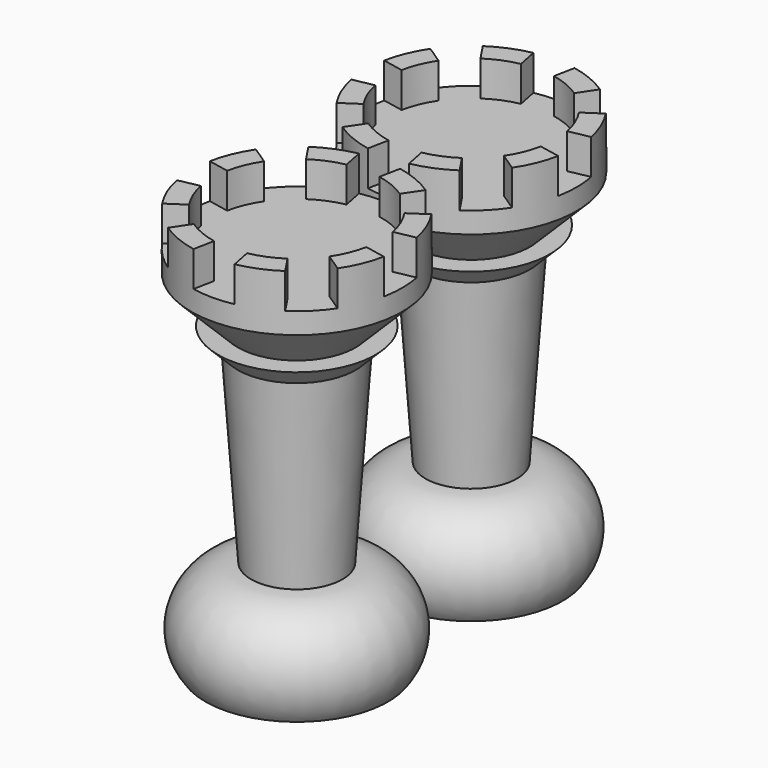
from build123d import *

# Parameters (mm, degrees)
F3_DEPTH = 5


with BuildPart() as f1:
    # F0 (on Front) → F1 (revolve)
    with BuildSketch(Plane.XZ):
        with BuildLine():
            Line((-14.5243834255, -33.9162831373), (-1.5243834255, -33.9162831373))
            Line((-1.5243834255, -33.9162831373), (-1.5243834255, 18.538148064))
            Line((-1.5243834255, 18.538148064), (-13.5243834255, 18.538148064))
            Line((-13.5243834255, 18.538148064), (-13.5243834255, 23.538148064))
            Line((-13.5243834255, 23.538148064), (-16.5243834255, 23.538148064))
            Line((-16.5243834255, 23.538148064), (-16.5243834255, 15.538148064))
            Line((-16.5243834255, 15.538148064), (-9.8983793488, 8.9121439874))
            Line((-9.8983793488, 8.9121439874), (-12.7268064736, 8.9121439874))
            Line((-12.7268064736, 8.9121439874), (-9.8983793488, 6.0837168627))
            Line((-9.8983793488, 6.0837168627), (-8.0243834255, -20.7156734039))
            ThreePointArc((-8.0243834255, -20.7156734039), (-15.3814565074, -25.2936493349), (-14.5243834255, -33.9162831373))
        make_face()
    revolve(axis=Axis((-1.5243834255, 0, -0.7848188675), (0, 0, 1)))

    # F2 (on face) → F3 (cut)
    with BuildSketch(Plane.XY.offset(23.538148064)):
        with BuildLine():
            ThreePointArc((-13.2938067903, -2.3410838642), (-13.4666001455, -1.176205684), (-13.5243834255, 0))
            Line((-13.5243834255, 0), (-16.5243834255, 0))
            ThreePointArc((-16.5243834255, 0), (-16.4521543255, -1.4702571049), (-16.2361626315, -2.9263548302))
            Line((-16.2361626315, -2.9263548302), (-13.2938067903, -2.3410838642))
        make_face()
        with BuildLine():
            Line((-16.5243834255, 0), (-13.5243834255, 0))
            ThreePointArc((-13.5243834255, 0), (-13.4666001455, 1.176205684), (-13.2938067903, 2.3410838642))
            Line((-13.2938067903, 2.3410838642), (-16.2361626315, 2.9263548302))
            ThreePointArc((-16.2361626315, 2.9263548302), (-16.4521543255, 1.4702571049), (-16.5243834255, 0))
        make_face()
        with BuildLine():
            Line((-13.99642761, 8.3335534953), (-11.5020187731, 6.6668427962))
            ThreePointArc((-11.5020187731, 6.6668427962), (-10.0096647997, 8.4852813742), (-8.1912262217, 9.9776353476))
            Line((-8.1912262217, 9.9776353476), (-9.8579369208, 12.4720441845))
            ThreePointArc((-9.8579369208, 12.4720441845), (-12.1309851433, 10.6066017178), (-13.99642761, 8.3335534953))
        make_face()
        with BuildLine():
            Line((-4.4507382557, 14.711779206), (-3.8654672897, 11.7694233648))
            ThreePointArc((-3.8654672897, 11.7694233648), (-1.5243834255, 12), (0.8167004387, 11.7694233648))
            Line((0.8167004387, 11.7694233648), (1.4019714048, 14.711779206))
            ThreePointArc((1.4019714048, 14.711779206), (-1.5243834255, 15), (-4.4507382557, 14.711779206))
        make_face()
        with BuildLine():
            Line((6.8091700698, 12.4720441845), (5.1424593708, 9.9776353476))
            ThreePointArc((5.1424593708, 9.9776353476), (6.9608979488, 8.4852813742), (8.4532519222, 6.6668427962))
            Line((8.4532519222, 6.6668427962), (10.9476607591, 8.3335534953))
            ThreePointArc((10.9476607591, 8.3335534953), (9.0822182923, 10.6066017178), (6.8091700698, 12.4720441845))
        make_face()
        with BuildLine():
            ThreePointArc((10.2450399394, 2.3410838642), (10.4178332946, 1.176205684), (10.4756165745, 0))
            Line((10.4756165745, 0), (13.4756165745, 0))
            ThreePointArc((13.4756165745, 0), (13.4033874746, 1.4702571049), (13.1873957806, 2.9263548302))
            Line((13.1873957806, 2.9263548302), (10.2450399394, 2.3410838642))
        make_face()
        with BuildLine():
            Line((13.4756165745, 0), (10.4756165745, 0))
            ThreePointArc((10.4756165745, 0), (10.4178332946, -1.176205684), (10.2450399394, -2.3410838642))
            Line((10.2450399394, -2.3410838642), (13.1873957806, -2.9263548302))
            ThreePointArc((13.1873957806, -2.9263548302), (13.4033874746, -1.4702571049), (13.4756165745, 0))
        make_face()
        with BuildLine():
            ThreePointArc((8.4532519222, -6.6668427962), (6.9608979488, -8.4852813742), (5.1424593708, -9.9776353476))
            Line((5.1424593708, -9.9776353476), (6.8091700698, -12.4720441845))
            ThreePointArc((6.8091700698, -12.4720441845), (9.0822182923, -10.6066017178), (10.9476607591, -8.3335534953))
            Line((10.9476607591, -8.3335534953), (8.4532519222, -6.6668427962))
        make_face()
        with BuildLine():
            ThreePointArc((0.8167004387, -11.7694233648), (-1.5243834255, -12), (-3.8654672897, -11.7694233648))
            Line((-3.8654672897, -11.7694233648), (-4.4507382557, -14.711779206))
            ThreePointArc((-4.4507382557, -14.711779206), (-1.5243834255, -15), (1.4019714048, -14.711779206))
            Line((1.4019714048, -14.711779206), (0.8167004387, -11.7694233648))
        make_face()
        with BuildLine():
            ThreePointArc((-8.1912262217, -9.9776353476), (-10.0096647997, -8.4852813742), (-11.5020187731, -6.6668427962))
            Line((-11.5020187731, -6.6668427962), (-13.99642761, -8.3335534953))
            ThreePointArc((-13.99642761, -8.3335534953), (-12.1309851433, -10.6066017178), (-9.8579369208, -12.4720441845))
            Line((-9.8579369208, -12.4720441845), (-8.1912262217, -9.9776353476))
        make_face()
    extrude(amount=-F3_DEPTH, mode=Mode.SUBTRACT)


with BuildPart() as f4_1:
    # F4: copy of F1
    add(f1.part.moved(Location((0, 31, 0))))


solid = Compound([f1.part, f4_1.part])
